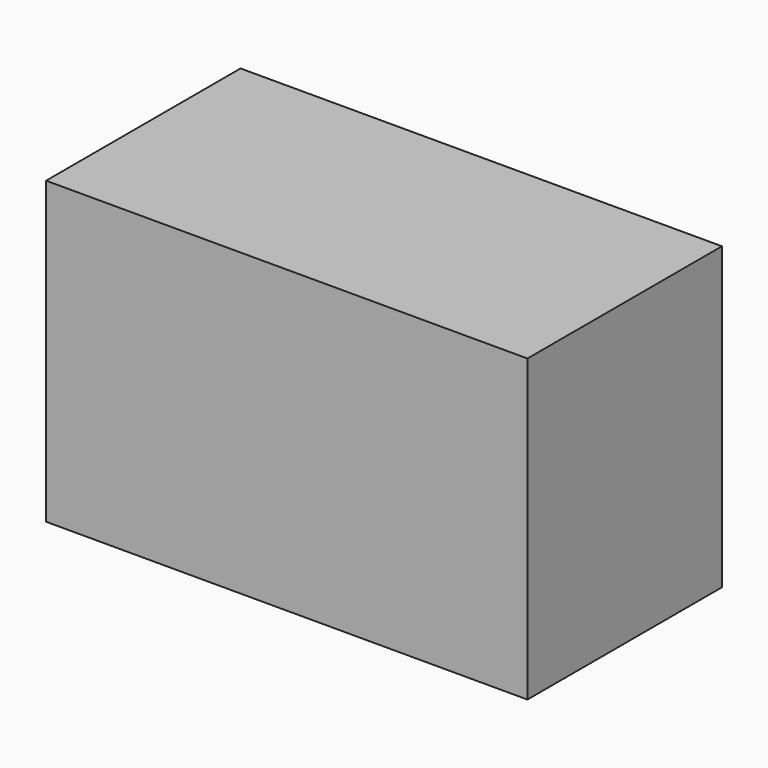
from build123d import *

# Parameters (mm, degrees)
F0_W     = 20.2
F0_H     = 12.6
F1_DEPTH = 10.2
F2_T     = -2.54


with BuildPart() as f1:
    # F0 (on Front) → F1 (new body)
    with BuildSketch(Plane.XZ):
        Rectangle(F0_W, F0_H)
    extrude(amount=-F1_DEPTH)

    # F2
    f2_openings = [f1.faces().sort_by_distance(p)[0] for p in [
        (0, 10.2, 0),
    ]]
    offset(amount=F2_T, openings=f2_openings)


solid = f1.part
